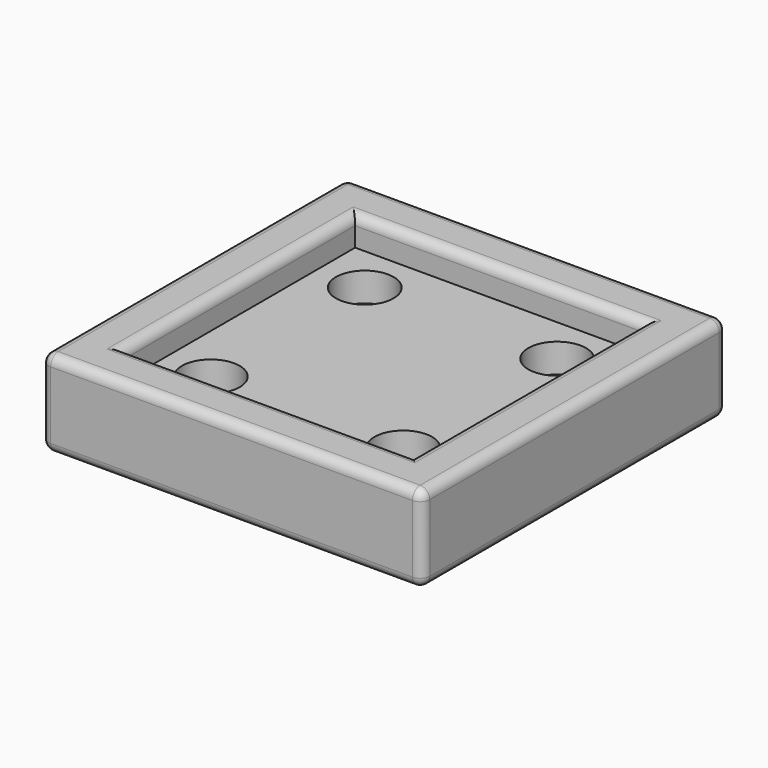
from build123d import *

# Parameters (mm, degrees)
SKETCH_W        = 39.6
SKETCH_H        = 39.6
PAD_DEPTH       = 9
SKETCH001_R     = 1.75
POCKET_DEPTH    = 10
SKETCH002_R     = 3
POCKET001_DEPTH = 6
SKETCH003_W     = 30
SKETCH003_H     = 30
POCKET002_DEPTH = 3
FILLET_R        = 1


with BuildPart() as part:
    # Sketch → Pad (new body)
    with BuildSketch(Plane.XY):
        with Locations((19.8, 19.8)):
            Rectangle(SKETCH_W, SKETCH_H)
    extrude(amount=PAD_DEPTH)

    # Sketch001 (on Face6 of Pad) → Pocket (cut)
    with BuildSketch(Plane.XY.offset(9)):
        with Locations((9.8, 9.8)):
            Circle(SKETCH001_R)
        with Locations((9.8, 29.8)):
            Circle(SKETCH001_R)
        with Locations((29.8, 9.8)):
            Circle(SKETCH001_R)
        with Locations((29.8, 29.8)):
            Circle(SKETCH001_R)
    extrude(amount=-POCKET_DEPTH, mode=Mode.SUBTRACT)

    # Sketch002 (on Face5 of Pocket) → Pocket001 (cut)
    with BuildSketch(Plane.XY.offset(9)):
        with Locations((9.8, 9.8)):
            Circle(SKETCH002_R)
        with Locations((9.8, 29.8)):
            Circle(SKETCH002_R)
        with Locations((29.8, 9.8)):
            Circle(SKETCH002_R)
        with Locations((29.8, 29.8)):
            Circle(SKETCH002_R)
    extrude(amount=-POCKET001_DEPTH, mode=Mode.SUBTRACT)

    # Sketch003 (on Face5 of Pocket001) → Pocket002 (cut)
    with BuildSketch(Plane.XY.offset(9)):
        with Locations((19.8, 19.8)):
            Rectangle(SKETCH003_W, SKETCH003_H)
    extrude(amount=-POCKET002_DEPTH, mode=Mode.SUBTRACT)

    # Fillet
    fillet_edges = [part.edges().sort_by_distance(p)[0] for p in [
        (0, 39.6, 4.5),
        (0, 0, 4.5),
        (39.6, 39.6, 4.5),
        (39.6, 0, 4.5),
        (39.6, 19.8, 0),
        (19.8, 39.6, 0),
        (0, 19.8, 0),
        (19.8, 0, 0),
        (19.8, 0, 9),
        (39.6, 19.8, 9),
        (19.8, 39.6, 9),
        (0, 19.8, 9),
        (4.8, 19.8, 9),
        (19.8, 34.8, 9),
        (34.8, 19.8, 9),
        (19.8, 4.8, 9),
    ]]
    fillet(fillet_edges, radius=FILLET_R)


solid = part.part
